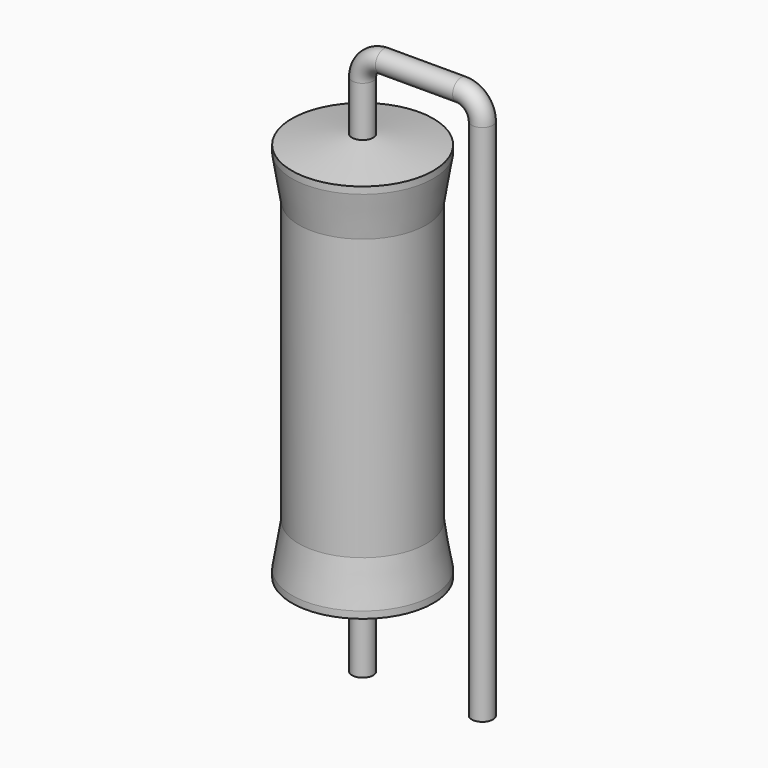
from build123d import *

# Parameters (mm, degrees)
SKETCH_R = 0.45


with BuildPart() as sweep_body:
    # Sweep: sweep along a path in Sketch001
    with BuildLine(Plane.XZ) as sweep_path:
        Line((0, -3), (0, 19.2))
        ThreePointArc((0, 19.2), (0.263601, 19.836393), (0.899992, 20.1))
        Line((0.899992, 20.1), (4.18, 20.1))
        ThreePointArc((4.18, 20.1), (4.816396, 19.836396), (5.08, 19.2))
        Line((5.08, 19.2), (5.08, -3))
    # Sketch → Sweep (sweep)
    with BuildSketch(Plane.XY.offset(-2)):
        Circle(SKETCH_R)
    sweep(path=sweep_path.line)


with BuildPart() as revolution:
    # Sketch002 → Revolution (revolve)
    with BuildSketch(Plane.XZ):
        Polygon((0, 0.1), (0, 17.1), (0.3375, 17.1), (3, 16.675), (3, 16.3825), (2.7, 14.55), (2.7, 2.65), (3, 0.8175), (3, 0.525), (0.3375, 0.1), align=None)
    revolve(axis=Axis((0, 0, 0), (0, 0, 1)))


solid = Compound([sweep_body.part, revolution.part])
